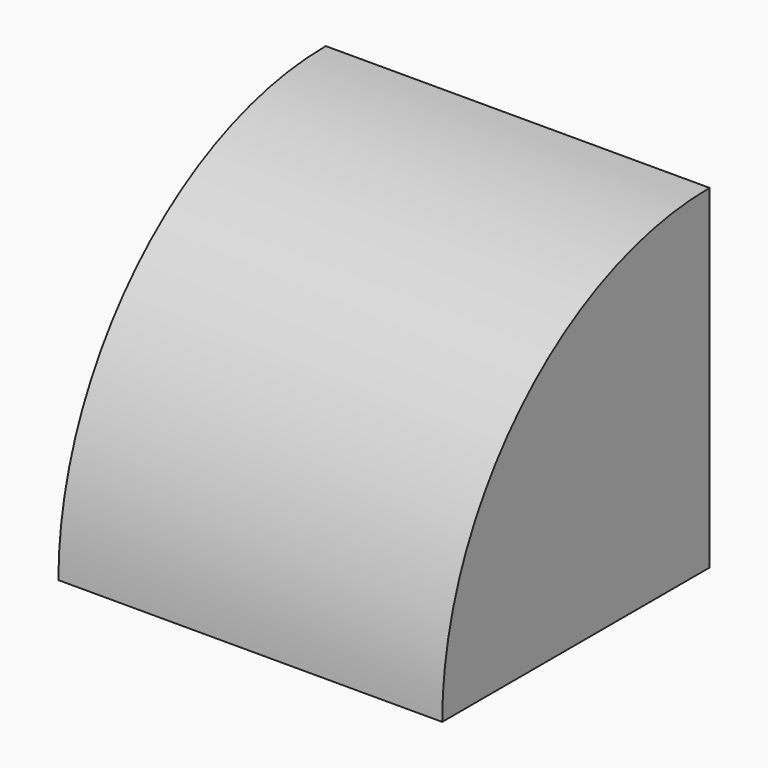
from build123d import *

# Parameters (mm, degrees)
F0_W     = 53.815968
F0_H     = 46.868488
F1_ANGLE = 90
F2_T     = -2.54


with BuildPart() as f1:
    # F0 (on Front) → F1 (revolve)
    with BuildSketch(Plane.XZ):
        with Locations((26.907984, 23.434244)):
            Rectangle(F0_W, F0_H)
    revolve(axis=Axis((26.907984, 0, 0), (1, 0, 0)), revolution_arc=F1_ANGLE)

    # F2
    f2_openings = [f1.faces().sort_by_distance(p)[0] for p in [
        (26.907984, -23.434244, 0),
    ]]
    offset(amount=F2_T, openings=f2_openings)


solid = f1.part
